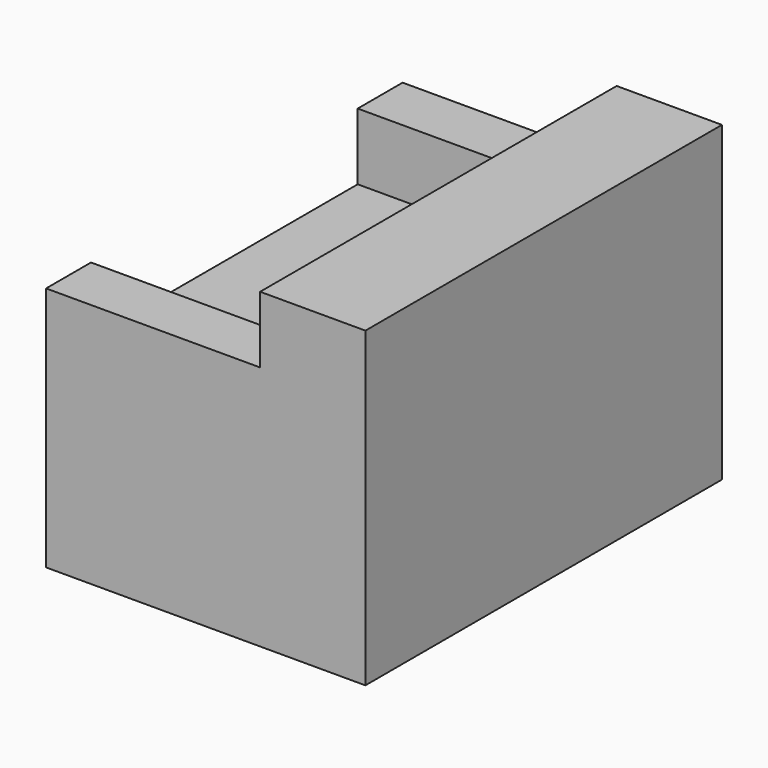
from build123d import *

# Parameters (mm, degrees)
F0_W     = 910
F0_H     = 1270
F1_DEPTH = 890
F2_W     = 950
F2_H     = 380
F3_DEPTH = 610
F4_W     = 160
F4_H     = 190
F5_DEPTH = 610


with BuildPart() as f1:
    # F0 (on Top) → F1 (new body)
    with BuildSketch(Plane.XY):
        with Locations((10.50148, 0)):
            Rectangle(F0_W, F0_H)
    extrude(amount=F1_DEPTH)

    # F2 (on face) → F3 (cut)
    with BuildSketch(Plane(origin=(-444.49852, 0, 0), x_dir=(0, -1, 0), z_dir=(-1, 0, 0))):
        with Locations((0, 700)):
            Rectangle(F2_W, F2_H)
    extrude(amount=-F3_DEPTH, mode=Mode.SUBTRACT)

    # F4 (on face) → F5 (cut, through all)
    with BuildSketch(Plane(origin=(-444.49852, 0, 0), x_dir=(0, -1, 0), z_dir=(-1, 0, 0))):
        with Locations((-555, 795)):
            Rectangle(F4_W, F4_H)
        with Locations((555, 795)):
            Rectangle(F4_W, F4_H)
    extrude(amount=-F5_DEPTH, mode=Mode.SUBTRACT)


solid = f1.part
